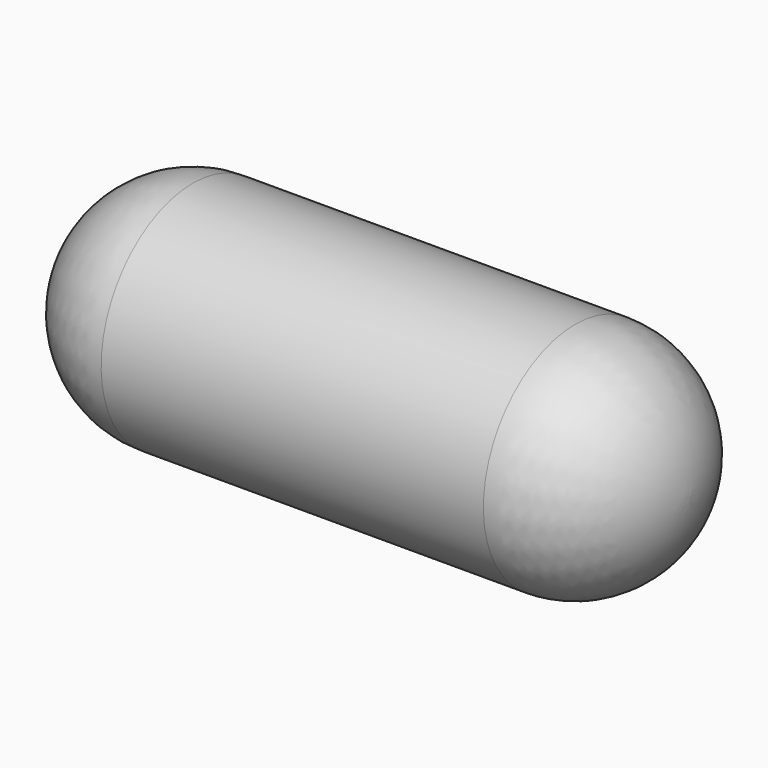
from build123d import *


with BuildPart() as f1:
    # F0 (on Front) → F1 (revolve)
    with BuildSketch(Plane.XZ):
        with BuildLine():
            Line((500, 300), (0, 300))
            Line((0, 300), (-500, 300))
            ThreePointArc((-500, 300), (-712.132034, 212.132034), (-800, 0))
            Line((-800, 0), (800, 0))
            ThreePointArc((800, 0), (712.132034, 212.132034), (500, 300))
        make_face()
    revolve(axis=Axis((0, 0, 0), (1, 0, 0)))


solid = f1.part
